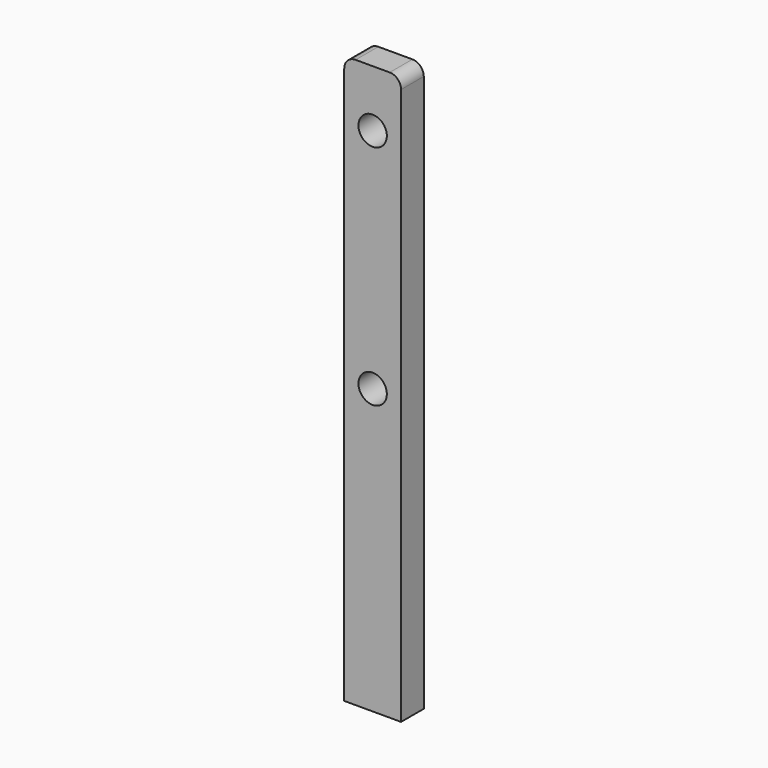
from build123d import *

# Parameters (mm, degrees)
F1_DEPTH = 5
F2_R     = 2.5
F3_DEPTH = 5


with BuildPart() as f1:
    # F0 (on Front) → F1 (new body)
    with BuildSketch(Plane.XZ):
        with BuildLine():
            Line((0, 98), (0, 0))
            Line((0, 0), (10, 0))
            Line((10, 0), (10, 98))
            ThreePointArc((10, 98), (9.414214, 99.414214), (8, 100))
            Line((8, 100), (2, 100))
            ThreePointArc((2, 100), (0.585786, 99.414214), (0, 98))
        make_face()
    extrude(amount=F1_DEPTH)

    # F2 (on Front) → F3 (cut)
    with BuildSketch(Plane.XZ):
        with Locations((5, 90)):
            Circle(F2_R)
        with Locations((5, 50)):
            Circle(F2_R)
    extrude(amount=F3_DEPTH, mode=Mode.SUBTRACT)


solid = f1.part
